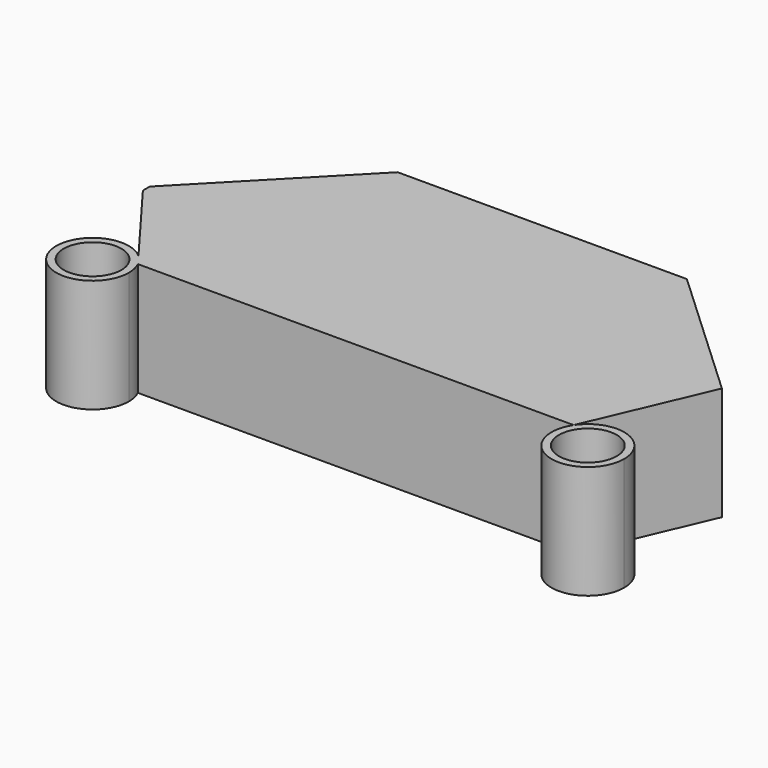
from build123d import *

# Parameters (mm, degrees)
F0_R     = 4.1403965239
F1_DEPTH = 16.256
F0_R_2   = 4.1402


with BuildPart() as f1:
    # F0 (on Top) → F1 (new body)
    with BuildSketch(Plane.XY):
        with BuildLine():
            ThreePointArc((47.6012881676, -1.0301716393), (43.8955757975, 3.9596117463), (38.0476750433, 1.8543091137))
            ThreePointArc((38.0476750433, 1.8543091137), (40.8824887172, -6.0199550249), (47.6012881676, -1.0301716393))
        make_face()
        with Locations((42.3890322573, -1.0301716393)):
            Circle(F0_R, mode=Mode.SUBTRACT)
    extrude(amount=F1_DEPTH)


with BuildPart() as f1b:
    # F0 (on Top) → F1, piece 2 (new body)
    with BuildSketch(Plane.XY):
        with BuildLine():
            Line((-15.6586095691, 37.4295711517), (-35.1631939411, 17.37556234))
            Line((-35.1631939411, 17.37556234), (-35.1631939411, 16.1393564194))
            Line((-35.1631939411, 16.1393564194), (-25.6549682231, 3.4617226109))
            ThreePointArc((-25.6549682231, 3.4617226109), (-24.9739196415, 2.7167172375), (-24.4494080544, 1.8543091137))
            Line((-24.4494080544, 1.8543091137), (38.0476750433, 1.8543091137))
            Line((38.0476750433, 1.8543091137), (45.4649068415, 19.1611927003))
            Line((45.4649068415, 19.1611927003), (25.8229691535, 37.4295711517))
            Line((25.8229691535, 37.4295711517), (-15.6586095691, 37.4295711517))
        make_face()
        with BuildLine():
            ThreePointArc((-24.4494080544, 1.8543091137), (-24.9739196415, 2.7167172375), (-25.6549682231, 3.4617226109))
            Line((-25.6549682231, 3.4617226109), (-24.4494080544, 1.8543091137))
        make_face()
        with BuildLine():
            Line((-24.4494080544, 1.8543091137), (-25.6549682231, 3.4617226109))
            ThreePointArc((-25.6549682231, 3.4617226109), (-33.8964570414, -2.5251218613), (-23.9325195844, -0.4074828386))
            ThreePointArc((-23.9325195844, -0.4074828386), (-24.0633862264, 0.75256851), (-24.4494080544, 1.8543091137))
        make_face()
        with Locations((-29.1395195844, -0.4074828386)):
            Circle(F0_R_2, mode=Mode.SUBTRACT)
    extrude(amount=F1_DEPTH)


solid = Compound([f1.part, f1b.part])
